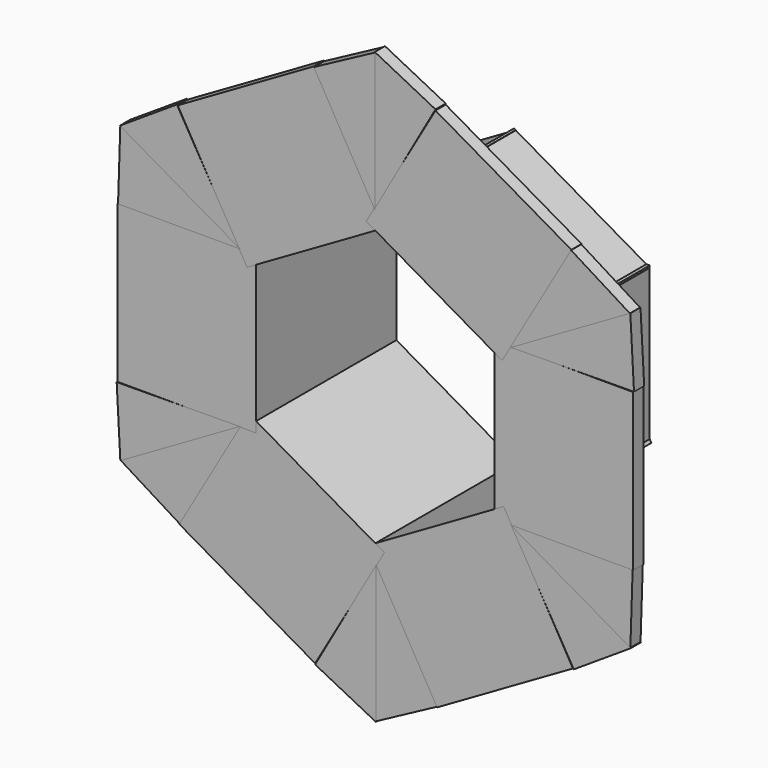
from build123d import *

# Parameters (mm, degrees)
F1_DEPTH  = 50
F4_COUNT  = 6
F6_DEPTH  = 4.056845
F7_COUNT  = 6
F9_DEPTH  = 4.056845
F10_COUNT = 6


with BuildPart() as f1:
    # F0 (on Top) → F1 (new body)
    with BuildSketch(Plane.XY):
        Polygon((0, 55.894308), (0, 0), (44.181589, 0), (44.181589, 4.056845), (4.74004, 4.056845), (4.74004, 6.310648), (4.74004, 55.894308), align=None)
    extrude(amount=-F1_DEPTH)


with BuildPart() as f4_1:
    # F4: instance of F1
    add(f1.part.rotate(Axis((-38, 39.557749, -25.285615), (0, 1, 0)), 1 * 360 / F4_COUNT))


with BuildPart() as f4_2:
    # F4: instance of F1
    add(f1.part.rotate(Axis((-38, 39.557749, -25.285615), (0, 1, 0)), 2 * 360 / F4_COUNT))


with BuildPart() as f4_3:
    # F4: instance of F1
    add(f1.part.rotate(Axis((-38, 39.557749, -25.285615), (0, 1, 0)), 3 * 360 / F4_COUNT))


with BuildPart() as f4_4:
    # F4: instance of F1
    add(f1.part.rotate(Axis((-38, 39.557749, -25.285615), (0, 1, 0)), 4 * 360 / F4_COUNT))


with BuildPart() as f4_5:
    # F4: instance of F1
    add(f1.part.rotate(Axis((-38, 39.557749, -25.285615), (0, 1, 0)), 5 * 360 / F4_COUNT))


with BuildPart() as f6:
    # F5 (on Front) → F6 (new body, through all)
    with BuildSketch(Plane.XZ):
        Polygon((-38.158853, 68.500929), (-57.615329, 58.087602), (-38.158853, 24.38131), align=None)
    extrude(amount=-F6_DEPTH)


with BuildPart() as f7_1:
    # F7: instance of F6
    add(f6.part.rotate(Axis((-38, 39.557749, -25.285615), (0, 1, 0)), 1 * 360 / F7_COUNT))


with BuildPart() as f7_2:
    # F7: instance of F6
    add(f6.part.rotate(Axis((-38, 39.557749, -25.285615), (0, 1, 0)), 2 * 360 / F7_COUNT))


with BuildPart() as f7_3:
    # F7: instance of F6
    add(f6.part.rotate(Axis((-38, 39.557749, -25.285615), (0, 1, 0)), 3 * 360 / F7_COUNT))


with BuildPart() as f7_4:
    # F7: instance of F6
    add(f6.part.rotate(Axis((-38, 39.557749, -25.285615), (0, 1, 0)), 4 * 360 / F7_COUNT))


with BuildPart() as f7_5:
    # F7: instance of F6
    add(f6.part.rotate(Axis((-38, 39.557749, -25.285615), (0, 1, 0)), 5 * 360 / F7_COUNT))


with BuildPart() as f9:
    # F8 (on Front) → F9 (new body, through all)
    with BuildSketch(Plane.XZ):
        Polygon((-38.16263, 24.769165), (-18.814184, 58.845531), (-38.16263, 68.664148), align=None)
    extrude(amount=-F9_DEPTH)


with BuildPart() as f10_1:
    # F10: instance of F9
    add(f9.part.rotate(Axis((-38, 39.557749, -25.285615), (0, 1, 0)), 1 * 360 / F10_COUNT))


with BuildPart() as f10_2:
    # F10: instance of F9
    add(f9.part.rotate(Axis((-38, 39.557749, -25.285615), (0, 1, 0)), 2 * 360 / F10_COUNT))


with BuildPart() as f10_3:
    # F10: instance of F9
    add(f9.part.rotate(Axis((-38, 39.557749, -25.285615), (0, 1, 0)), 3 * 360 / F10_COUNT))


with BuildPart() as f10_4:
    # F10: instance of F9
    add(f9.part.rotate(Axis((-38, 39.557749, -25.285615), (0, 1, 0)), 4 * 360 / F10_COUNT))


with BuildPart() as f10_5:
    # F10: instance of F9
    add(f9.part.rotate(Axis((-38, 39.557749, -25.285615), (0, 1, 0)), 5 * 360 / F10_COUNT))


solid = Compound([f1.part, f4_1.part, f4_2.part, f4_3.part, f4_4.part, f4_5.part, f6.part, f7_1.part, f7_2.part, f7_3.part, f7_4.part, f7_5.part, f9.part, f10_1.part, f10_2.part, f10_3.part, f10_4.part, f10_5.part])
